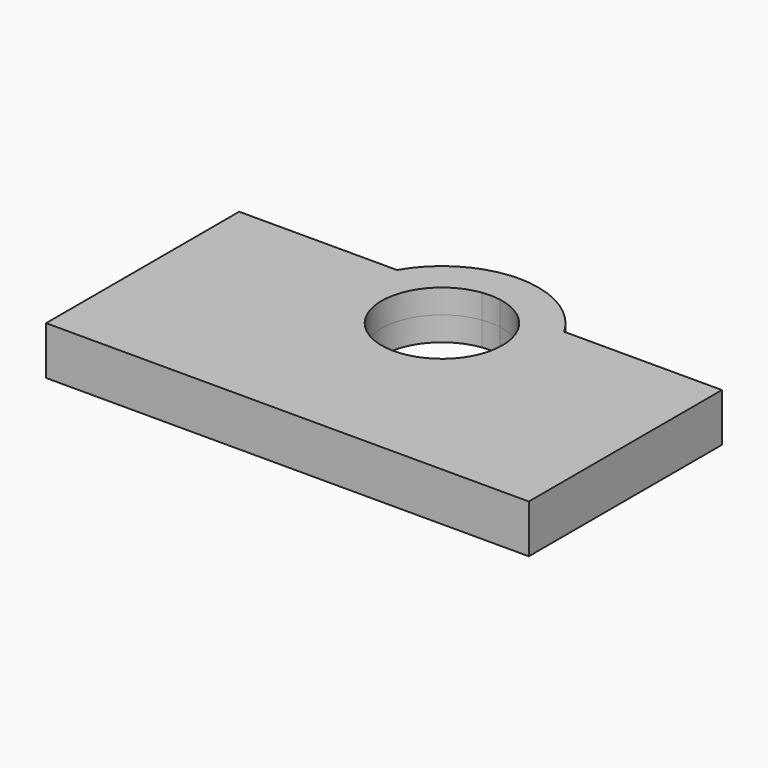
from build123d import *

# Parameters (mm, degrees)
F1_DEPTH = 5


with BuildPart() as f1:
    # F0 (on Top) → F1 (new body, symmetric)
    with BuildSketch(Plane.XY):
        with BuildLine():
            Line((-20.5347956473, 28.0376815487), (-53.2142875716, 28.0376815487))
            Line((-53.2142875716, 28.0376815487), (-53.2142875716, -21.9623184513))
            Line((-53.2142875716, -21.9623184513), (46.7857124284, -21.9623184513))
            Line((46.7857124284, -21.9623184513), (46.7857124284, 28.0376815487))
            Line((46.7857124284, 28.0376815487), (14.1062205041, 28.0376815487))
            ThreePointArc((14.1062205041, 28.0376815487), (16.1042289542, 23.2140624507), (16.7857124284, 18.0376815487))
            ThreePointArc((16.7857124284, 18.0376815487), (-8.3906684737, -1.2808349771), (-20.5347956473, 28.0376815487))
        make_face()
        with BuildLine():
            ThreePointArc((-4.8116889233, 37.9737872095), (-13.8985457677, 34.9446808921), (-20.5347956473, 28.0376815487))
            Line((-20.5347956473, 28.0376815487), (-10.7142875716, 28.0376815487))
            ThreePointArc((-10.7142875716, 28.0376815487), (-7.918295866, 29.6188000597), (-4.8116889233, 30.4351937556))
            Line((-4.8116889233, 30.4351937556), (-4.8116889233, 37.9737872095))
        make_face()
        with BuildLine():
            Line((-10.7142875716, 28.0376815487), (-20.5347956473, 28.0376815487))
            ThreePointArc((-20.5347956473, 28.0376815487), (-8.3906684737, -1.2808349771), (16.7857124284, 18.0376815487))
            ThreePointArc((16.7857124284, 18.0376815487), (16.1042289542, 23.2140624507), (14.1062205041, 28.0376815487))
            Line((14.1062205041, 28.0376815487), (4.2857124284, 28.0376815487))
            ThreePointArc((4.2857124284, 28.0376815487), (7.9660523159, 23.6278514924), (9.2857124284, 18.0376815487))
            ThreePointArc((9.2857124284, 18.0376815487), (-8.8044575154, 6.8573416612), (-10.7142875716, 28.0376815487))
        make_face()
        with BuildLine():
            ThreePointArc((-1.6168862199, 37.9737872095), (-3.2142875716, 38.0376815487), (-4.8116889233, 37.9737872095))
            Line((-4.8116889233, 37.9737872095), (-1.6168862199, 37.9737872095))
        make_face()
        with BuildLine():
            Line((-1.6168862199, 37.9737872095), (-4.8116889233, 37.9737872095))
            Line((-4.8116889233, 37.9737872095), (-4.8116889233, 30.4351937556))
            ThreePointArc((-4.8116889233, 30.4351937556), (-2.9110122001, 30.534001969), (-1.0173662929, 30.3431086804))
            Line((-1.0173662929, 30.3431086804), (-1.0173662929, 37.916653778))
            ThreePointArc((-1.0173662929, 37.916653778), (-1.3169111954, 37.9474772002), (-1.6168862199, 37.9737872095))
        make_face()
        with BuildLine():
            ThreePointArc((-1.0173662929, 30.3431086804), (1.7693174625, 29.5012621788), (4.2857124284, 28.0376815487))
            Line((4.2857124284, 28.0376815487), (14.1062205041, 28.0376815487))
            ThreePointArc((14.1062205041, 28.0376815487), (7.7233097527, 34.781903381), (-1.0173662929, 37.916653778))
            Line((-1.0173662929, 37.916653778), (-1.0173662929, 30.3431086804))
        make_face()
        with BuildLine():
            Line((-1.0173662929, 37.9737872095), (-1.6168862199, 37.9737872095))
            ThreePointArc((-1.6168862199, 37.9737872095), (-1.3169111954, 37.9474772002), (-1.0173662929, 37.916653778))
            Line((-1.0173662929, 37.916653778), (-1.0173662929, 37.9737872095))
        make_face()
    extrude(amount=F1_DEPTH, both=True)


solid = f1.part
